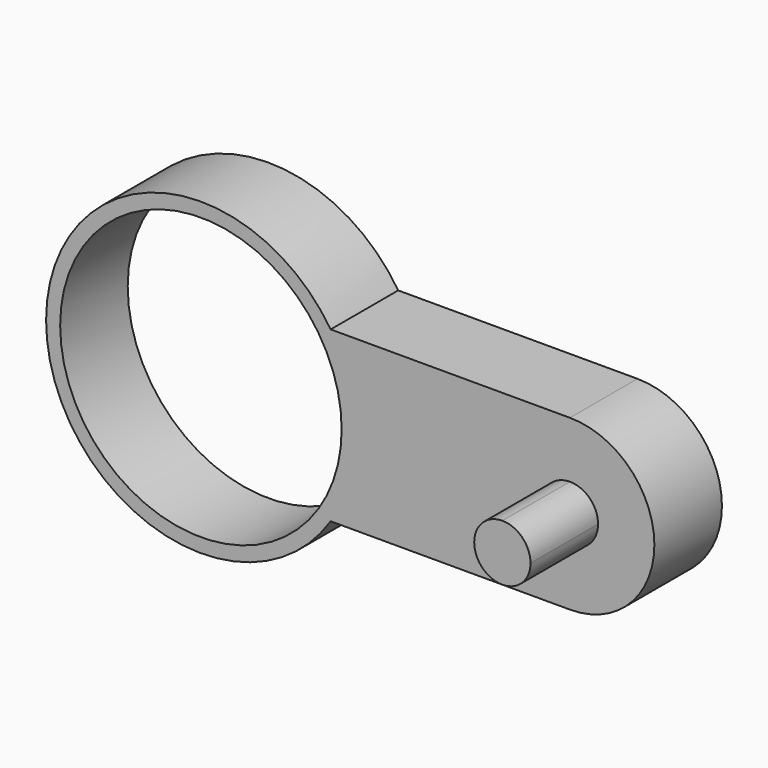
from build123d import *

# Parameters (mm, degrees)
F0_R     = 5
F1_DEPTH = 3
F2_DEPTH = 6


with BuildPart() as f1:
    # F0 (on Front) → F1 (new body)
    with BuildSketch(Plane.XZ):
        with BuildLine():
            ThreePointArc((4.6097722286, -3), (5.2727482046, -1.564648961), (5.5, 0))
            ThreePointArc((5.5, 0), (5.2727482046, 1.564648961), (4.6097722286, 3))
            ThreePointArc((4.6097722286, 3), (-5.5, 0), (4.6097722286, -3))
        make_face()
        Circle(F0_R, mode=Mode.SUBTRACT)
        with BuildLine():
            ThreePointArc((4.6097722286, 3), (5.2727482046, 1.564648961), (5.5, 0))
            ThreePointArc((5.5, 0), (5.2727482046, -1.564648961), (4.6097722286, -3))
            Line((4.6097722286, -3), (13.1097722286, -3))
            Line((13.1097722286, -3), (13.1097722286, -1))
            ThreePointArc((13.1097722286, -1), (12.1097722286, 0), (13.1097722286, 1))
            Line((13.1097722286, 1), (13.1097722286, 3))
            Line((13.1097722286, 3), (4.6097722286, 3))
        make_face()
        with BuildLine():
            ThreePointArc((13.1097722286, -3), (16.1097722286, 0), (13.1097722286, 3))
            Line((13.1097722286, 3), (13.1097722286, 1))
            ThreePointArc((13.1097722286, 1), (13.8168790098, 0.7071067812), (14.1097722286, 0))
            ThreePointArc((14.1097722286, 0), (13.8168790098, -0.7071067812), (13.1097722286, -1))
            Line((13.1097722286, -1), (13.1097722286, -3))
        make_face()
    extrude(amount=F1_DEPTH)

    # F0 (on Front) → F2 (join)
    with BuildSketch(Plane.XZ):
        with BuildLine():
            Line((13.1097722286, -1), (13.1097722286, 1))
            ThreePointArc((13.1097722286, 1), (12.1097722286, 0), (13.1097722286, -1))
        make_face()
        with BuildLine():
            ThreePointArc((14.1097722286, 0), (13.8168790098, 0.7071067812), (13.1097722286, 1))
            Line((13.1097722286, 1), (13.1097722286, -1))
            ThreePointArc((13.1097722286, -1), (13.8168790098, -0.7071067812), (14.1097722286, 0))
        make_face()
    extrude(amount=F2_DEPTH)


solid = f1.part
